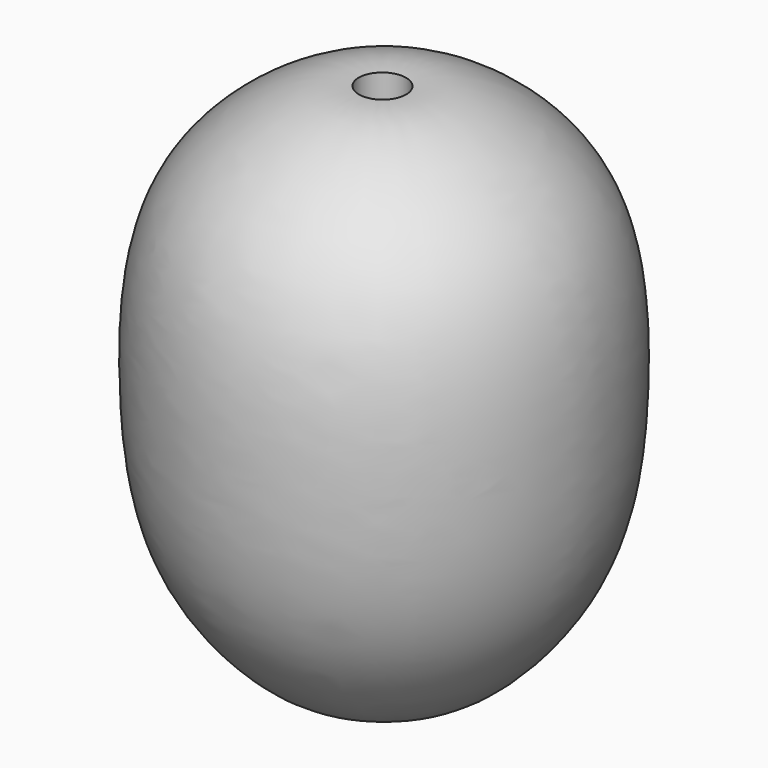
from build123d import *

# Parameters (mm, degrees)
F2_R     = 4.2314318494
F3_DEPTH = 184.48219


with BuildPart() as f1:
    # F0 (on Front) → F1 (revolve)
    with BuildSketch(Plane.XZ):
        with BuildLine():
            Line((-8.9865345508, 80.7127356529), (0, 80.7127356529))
            Line((0, 80.7127356529), (0, 141.8383866549))
            add(Edge.make_bspline(
                [(0, 141.8383866549), (-3.5171734653, 142.4229460638), (-12.2107881611, 143.8678376275), (-36.1019324358, 128.3956717108), (-38.2687171565, 95.8222683416), (-34.9600004925, 66.3265303031), (-17.0834180992, 48.1290084603), (-11.1214314604, 47.9704018348), (-8.9865345508, 47.9136072099)],
                knots=[0, 0, 0, 0, 0.1257338295, 0.3107840653, 0.5187506316, 0.7234604542, 0.9009753867, 1, 1, 1, 1], degree=3))
            Line((-8.9865345508, 47.9136072099), (-8.9865345508, 80.7127356529))
        make_face()
    revolve(axis=Axis((0, 0, 111.2755611539), (0, 0, 1)))

    # F2 (on Top) → F3 (cut)
    with BuildSketch(Plane.XY):
        with Locations((0.1242388826, -0.4969565198)):
            Circle(F2_R)
    extrude(amount=F3_DEPTH, mode=Mode.SUBTRACT)


solid = f1.part
